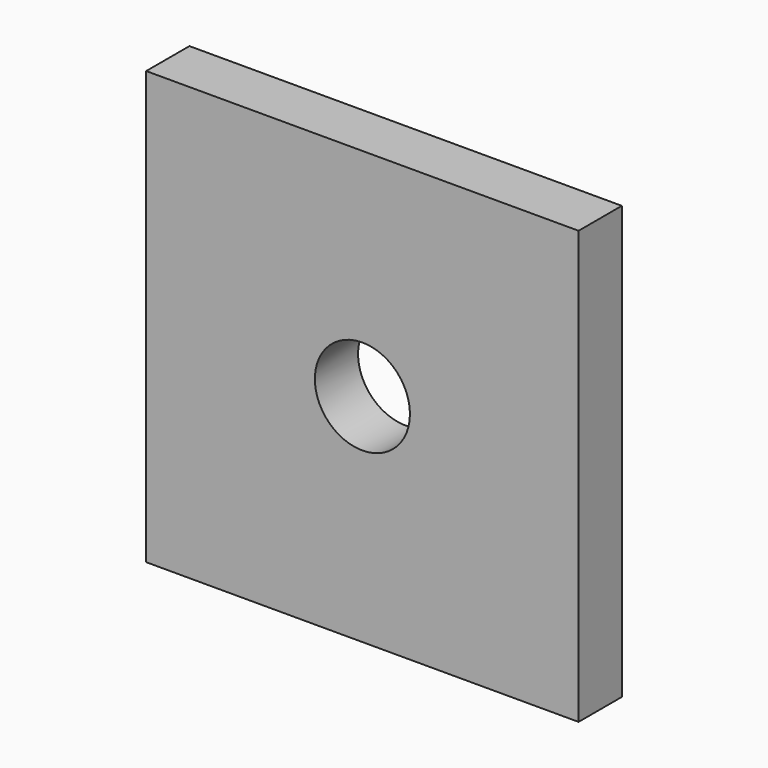
from build123d import *

# Parameters (mm, degrees)
F0_W     = 20
F0_H     = 20
F2_DEPTH = 2.5
F1_R     = 2.199241
F3_DEPTH = 50


with BuildPart() as f2:
    # F0 (on Front) → F2 (new body)
    with BuildSketch(Plane.XZ):
        Rectangle(F0_W, F0_H)
    extrude(amount=F2_DEPTH)

    # F1 (on Front) → F3 (cut)
    with BuildSketch(Plane.XZ):
        Circle(F1_R)
    extrude(amount=F3_DEPTH, mode=Mode.SUBTRACT)


solid = f2.part
